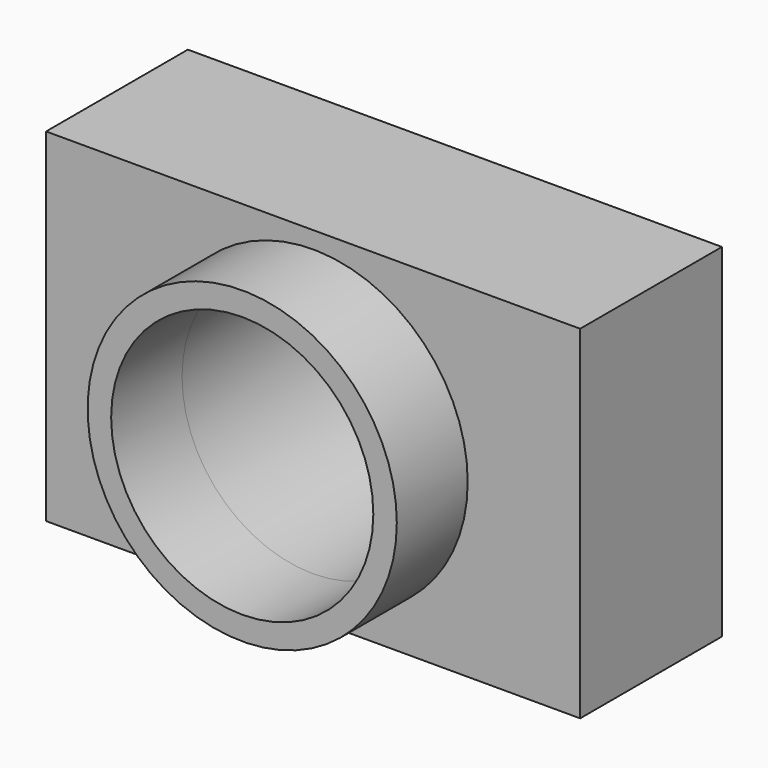
from build123d import *

# Parameters (mm, degrees)
F0_W      = 153.103292
F0_H      = 98.334714
F1_DEPTH  = 50.8
F2_R      = 44.312838
F2_R_2    = 37.577791
F3_DEPTH  = 25.4
F3_FACE_R = 37.577791
F4_DEPTH  = 76.2


with BuildPart() as f1:
    # F0 (on Front) → F1 (new body)
    with BuildSketch(Plane.XZ):
        Rectangle(F0_W, F0_H)
    extrude(amount=F1_DEPTH)

    # F2 (on face) → F3 (join)
    with BuildSketch(Plane.XZ.offset(50.8)):
        Circle(F2_R)
        Circle(F2_R_2, mode=Mode.SUBTRACT)
        Circle(F2_R)
        Circle(F2_R_2, mode=Mode.SUBTRACT)
    extrude(amount=F3_DEPTH)

    # F3_face (on face) → F4 (cut)
    with BuildSketch(Plane.XZ.offset(50.8)):
        Circle(F3_FACE_R)
    extrude(amount=-F4_DEPTH, mode=Mode.SUBTRACT)


solid = f1.part
